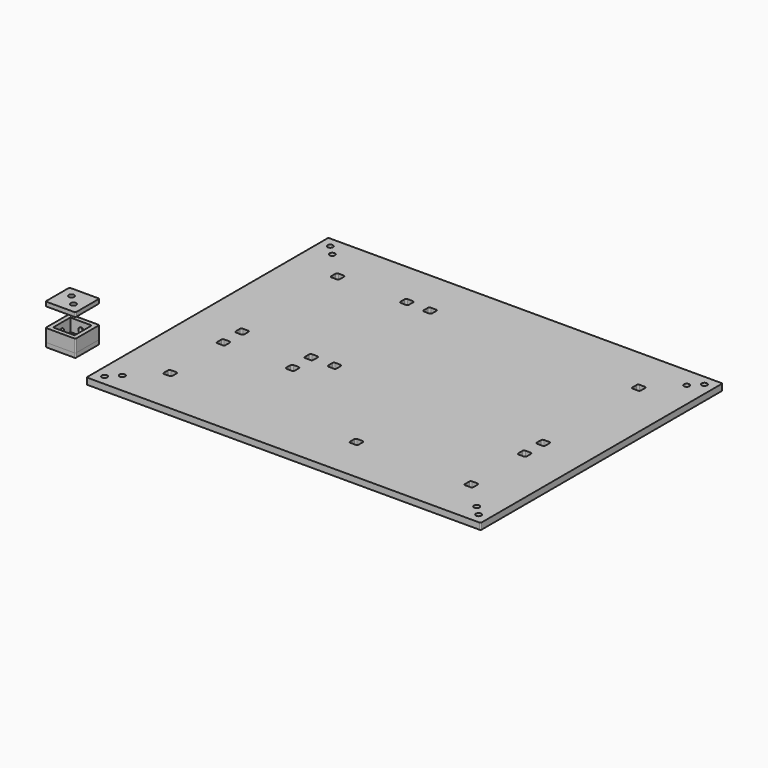
from build123d import *

# Parameters (mm, degrees)
SKETCH001_R      = 2.6
EXTRUDE001_DEPTH = 4
SKETCH003_R      = 2.6
EXTRUDE003_DEPTH = 6
SKETCH002_R      = 2.6
EXTRUDE002_DEPTH = 6
SKETCH_W         = 20.3
SKETCH_H         = 20.3
EXTRUDE_DEPTH    = 12
SKETCH004_R      = 2.6
EXTRUDE004_DEPTH = 4
EXTRUDE006_DEPTH = 6
SKETCH005_R      = 2.6
EXTRUDE005_DEPTH = 6


with BuildPart() as extrude001:
    # Sketch001 (on Face13 of Extrude) → Extrude001 (new body)
    with BuildSketch(Plane(origin=(0, 0, 0), x_dir=(1, 0, 0), z_dir=(0, 0, -1))):
        with BuildLine():
            Line((24.3, 3), (24.3, -23.3))
            ThreePointArc((23.3, -24.3), (24.007107, -24.007107), (24.3, -23.3))
            Line((23.3, -24.3), (-3, -24.3))
            ThreePointArc((-4, -23.3), (-3.707107, -24.007107), (-3, -24.3))
            Line((-4, -23.3), (-4, 3))
            ThreePointArc((-3, 4), (-3.707107, 3.707107), (-4, 3))
            Line((-3, 4), (23.3, 4))
            ThreePointArc((24.3, 3), (24.007107, 3.707107), (23.3, 4))
        make_face()
        with Locations((5.5, -14.8)):
            Circle(SKETCH001_R, mode=Mode.SUBTRACT)
        with Locations((14.8, -5.5)):
            Circle(SKETCH001_R, mode=Mode.SUBTRACT)
    extrude(amount=EXTRUDE001_DEPTH)


with BuildPart() as extrude003:
    # Sketch003 (on Face5 of Extrude) → Extrude003 (new body)
    with BuildSketch(Plane(origin=(0, 24.3, 0), x_dir=(-1, 0, 0), z_dir=(0, 1, 0))):
        with Locations((-10.15, 4.5)):
            Circle(SKETCH003_R)
    extrude(amount=-EXTRUDE003_DEPTH)


with BuildPart() as fusion:
    # Sketch002 (on Face7 of Extrude) → Extrude002 (new body)
    with BuildSketch(Plane(origin=(-4, 0, 0), x_dir=(0, -1, 0), z_dir=(-1, 0, 0))):
        with Locations((-10.15, 4.5)):
            Circle(SKETCH002_R)
    extrude(amount=-EXTRUDE002_DEPTH)

    # Fusion: union Extrude003
    add(extrude003.part)


with BuildPart() as cut:
    # Sketch → Extrude (new body)
    with BuildSketch(Plane.XY):
        with BuildLine():
            Line((-3, -4), (23.3, -4))
            ThreePointArc((23.3, -4), (24.007107, -3.707107), (24.3, -3))
            Line((24.3, -3), (24.3, 23.3))
            ThreePointArc((24.3, 23.3), (24.007107, 24.007107), (23.3, 24.3))
            Line((23.3, 24.3), (-3, 24.3))
            ThreePointArc((-3, 24.3), (-3.707107, 24.007107), (-4, 23.3))
            Line((-4, 23.3), (-4, -3))
            ThreePointArc((-4, -3), (-3.707107, -3.707107), (-3, -4))
        make_face()
        with Locations((10.15, 10.15)):
            Rectangle(SKETCH_W, SKETCH_H, mode=Mode.SUBTRACT)
    extrude(amount=EXTRUDE_DEPTH)

    # Cut: cut Fusion
    add(fusion.part, mode=Mode.SUBTRACT)


with BuildPart() as extrude004:
    # Sketch004 → Extrude004 (new body)
    with BuildSketch(Plane.XY.offset(30)):
        with BuildLine():
            Line((-3, 24.3), (23.3, 24.3))
            ThreePointArc((24.3, 23.3), (24.007107, 24.007107), (23.3, 24.3))
            Line((24.3, 23.3), (24.3, -3))
            ThreePointArc((23.3, -4), (24.007107, -3.707107), (24.3, -3))
            Line((23.3, -4), (-3, -4))
            ThreePointArc((-4, -3), (-3.707107, -3.707107), (-3, -4))
            Line((-4, -3), (-4, 23.3))
            ThreePointArc((-3, 24.3), (-3.707107, 24.007107), (-4, 23.3))
        make_face()
        with Locations((5.5, 14.8)):
            Circle(SKETCH004_R, mode=Mode.SUBTRACT)
        with Locations((14.8, 5.5)):
            Circle(SKETCH004_R, mode=Mode.SUBTRACT)
    extrude(amount=EXTRUDE004_DEPTH)


with BuildPart() as extrude006:
    # Sketch006 (on Face18 of Extrude005) → Extrude006 (new body)
    with BuildSketch(Plane.XY.offset(6)):
        with BuildLine():
            Line((103.5, 2), (108.5, 2))
            ThreePointArc((108.5, 2), (109.56066, 2.43934), (110, 3.5))
            Line((110, 3.5), (110, 8.5))
            ThreePointArc((110, 8.5), (109.56066, 9.56066), (108.5, 10))
            Line((108.5, 10), (103.5, 10))
            ThreePointArc((103.5, 10), (102.43934, 9.56066), (102, 8.5))
            Line((102, 8.5), (102, 3.5))
            ThreePointArc((102, 3.5), (102.43934, 2.43934), (103.5, 2))
        make_face()
        with BuildLine():
            Line((387, 8.5), (387, 3.5))
            ThreePointArc((387, 3.5), (387.43934, 2.43934), (388.5, 2))
            Line((388.5, 2), (393.5, 2))
            ThreePointArc((393.5, 2), (394.56066, 2.43934), (395, 3.5))
            Line((395, 3.5), (395, 8.5))
            ThreePointArc((395, 8.5), (394.56066, 9.56066), (393.5, 10))
            Line((393.5, 10), (388.5, 10))
            ThreePointArc((388.5, 10), (387.43934, 9.56066), (387, 8.5))
        make_face()
        with BuildLine():
            Line((278.245, 8.5), (278.245, 3.5))
            ThreePointArc((278.245, 3.5), (278.68434, 2.43934), (279.745, 2))
            Line((279.745, 2), (284.745, 2))
            ThreePointArc((284.745, 2), (285.80566, 2.43934), (286.245, 3.5))
            Line((286.245, 3.5), (286.245, 8.5))
            ThreePointArc((286.245, 8.5), (285.80566, 9.56066), (284.745, 10))
            Line((284.745, 10), (279.745, 10))
            ThreePointArc((279.745, 10), (278.68434, 9.56066), (278.245, 8.5))
        make_face()
        with BuildLine():
            Line((102, 71.5), (102, 66.5))
            ThreePointArc((102, 66.5), (102.43934, 65.43934), (103.5, 65))
            Line((103.5, 65), (108.5, 65))
            ThreePointArc((108.5, 65), (109.56066, 65.43934), (110, 66.5))
            Line((110, 66.5), (110, 71.5))
            ThreePointArc((110, 71.5), (109.56066, 72.56066), (108.5, 73))
            Line((108.5, 73), (103.5, 73))
            ThreePointArc((103.5, 73), (102.43934, 72.56066), (102, 71.5))
        make_face()
        with BuildLine():
            Line((167.45, 71.5), (167.45, 66.5))
            ThreePointArc((167.45, 66.5), (167.88934, 65.43934), (168.95, 65))
            Line((168.95, 65), (173.95, 65))
            ThreePointArc((173.95, 65), (175.01066, 65.43934), (175.45, 66.5))
            Line((175.45, 66.5), (175.45, 71.5))
            ThreePointArc((175.45, 71.5), (175.01066, 72.56066), (173.95, 73))
            Line((173.95, 73), (168.95, 73))
            ThreePointArc((168.95, 73), (167.88934, 72.56066), (167.45, 71.5))
        make_face()
        with BuildLine():
            Line((387, 71.5), (387, 66.5))
            ThreePointArc((387, 66.5), (387.43934, 65.43934), (388.5, 65))
            Line((388.5, 65), (393.5, 65))
            ThreePointArc((393.5, 65), (394.56066, 65.43934), (395, 66.5))
            Line((395, 66.5), (395, 71.5))
            ThreePointArc((395, 71.5), (394.56066, 72.56066), (393.5, 73))
            Line((393.5, 73), (388.5, 73))
            ThreePointArc((388.5, 73), (387.43934, 72.56066), (387, 71.5))
        make_face()
        with BuildLine():
            Line((102, 206.5), (102, 201.5))
            ThreePointArc((102, 201.5), (102.43934, 200.43934), (103.5, 200))
            Line((103.5, 200), (108.5, 200))
            ThreePointArc((108.5, 200), (109.56066, 200.43934), (110, 201.5))
            Line((110, 201.5), (110, 206.5))
            ThreePointArc((110, 206.5), (109.56066, 207.56066), (108.5, 208))
            Line((108.5, 208), (103.5, 208))
            ThreePointArc((103.5, 208), (102.43934, 207.56066), (102, 206.5))
        make_face()
        with BuildLine():
            Line((102, 93.5), (102, 88.5))
            ThreePointArc((102, 88.5), (102.43934, 87.43934), (103.5, 87))
            Line((103.5, 87), (108.5, 87))
            ThreePointArc((108.5, 87), (109.56066, 87.43934), (110, 88.5))
            Line((110, 88.5), (110, 93.5))
            ThreePointArc((110, 93.5), (109.56066, 94.56066), (108.5, 95))
            Line((108.5, 95), (103.5, 95))
            ThreePointArc((103.5, 95), (102.43934, 94.56066), (102, 93.5))
        make_face()
        with BuildLine():
            Line((167.455, 206.5), (167.455, 201.5))
            ThreePointArc((167.455, 201.5), (167.89434, 200.43934), (168.955, 200))
            Line((168.955, 200), (173.955, 200))
            ThreePointArc((173.955, 200), (175.01566, 200.43934), (175.455, 201.5))
            Line((175.455, 201.5), (175.455, 206.5))
            ThreePointArc((175.455, 206.5), (175.01566, 207.56066), (173.955, 208))
            Line((173.955, 208), (168.955, 208))
            ThreePointArc((168.955, 208), (167.89434, 207.56066), (167.455, 206.5))
        make_face()
        with BuildLine():
            Line((167.455, 93.5), (167.455, 88.5))
            ThreePointArc((167.455, 88.5), (167.89434, 87.43934), (168.955, 87))
            Line((168.955, 87), (173.955, 87))
            ThreePointArc((173.955, 87), (175.01566, 87.43934), (175.455, 88.5))
            Line((175.455, 88.5), (175.455, 93.5))
            ThreePointArc((175.455, 93.5), (175.01566, 94.56066), (173.955, 95))
            Line((173.955, 95), (168.955, 95))
            ThreePointArc((168.955, 95), (167.89434, 94.56066), (167.455, 93.5))
        make_face()
        with BuildLine():
            Line((189.455, 93.5), (189.455, 88.5))
            ThreePointArc((189.455, 88.5), (189.89434, 87.43934), (190.955, 87))
            Line((190.955, 87), (195.955, 87))
            ThreePointArc((195.955, 87), (197.01566, 87.43934), (197.455, 88.5))
            Line((197.455, 88.5), (197.455, 93.5))
            ThreePointArc((197.455, 93.5), (197.01566, 94.56066), (195.955, 95))
            Line((195.955, 95), (190.955, 95))
            ThreePointArc((190.955, 95), (189.89434, 94.56066), (189.455, 93.5))
        make_face()
        with BuildLine():
            Line((387, 93.5), (387, 88.5))
            ThreePointArc((387, 88.5), (387.43934, 87.43934), (388.5, 87))
            Line((388.5, 87), (393.5, 87))
            ThreePointArc((393.5, 87), (394.56066, 87.43934), (395, 88.5))
            Line((395, 88.5), (395, 93.5))
            ThreePointArc((395, 93.5), (394.56066, 94.56066), (393.5, 95))
            Line((393.5, 95), (388.5, 95))
            ThreePointArc((388.5, 95), (387.43934, 94.56066), (387, 93.5))
        make_face()
        with BuildLine():
            Line((189.455, 206.5), (189.455, 201.5))
            ThreePointArc((189.455, 201.5), (189.89434, 200.43934), (190.955, 200))
            Line((190.955, 200), (195.955, 200))
            ThreePointArc((195.955, 200), (197.01566, 200.43934), (197.455, 201.5))
            Line((197.455, 201.5), (197.455, 206.5))
            ThreePointArc((197.455, 206.5), (197.01566, 207.56066), (195.955, 208))
            Line((195.955, 208), (190.955, 208))
            ThreePointArc((190.955, 208), (189.89434, 207.56066), (189.455, 206.5))
        make_face()
        with BuildLine():
            Line((387, 206.5), (387, 201.5))
            ThreePointArc((387, 201.5), (387.43934, 200.43934), (388.5, 200))
            Line((388.5, 200), (393.5, 200))
            ThreePointArc((393.5, 200), (394.56066, 200.43934), (395, 201.5))
            Line((395, 201.5), (395, 206.5))
            ThreePointArc((395, 206.5), (394.56066, 207.56066), (393.5, 208))
            Line((393.5, 208), (388.5, 208))
            ThreePointArc((388.5, 208), (387.43934, 207.56066), (387, 206.5))
        make_face()
    extrude(amount=-EXTRUDE006_DEPTH)


with BuildPart() as cut001:
    # Sketch005 → Extrude005 (new body)
    with BuildSketch(Plane.XY):
        with BuildLine():
            Line((62, 247), (62, -37))
            ThreePointArc((62, -37), (62.292893, -37.707107), (63, -38))
            Line((63, -38), (434, -38))
            ThreePointArc((434, -38), (434.707107, -37.707107), (435, -37))
            Line((435, -37), (435, 247))
            ThreePointArc((435, 247), (434.707107, 247.707107), (434, 248))
            Line((434, 248), (63, 248))
            ThreePointArc((63, 248), (62.292893, 247.707107), (62, 247))
        make_face()
        with Locations((71.5, -28.5)):
            Circle(SKETCH005_R, mode=Mode.SUBTRACT)
        with Locations((80.8, -19.2)):
            Circle(SKETCH005_R, mode=Mode.SUBTRACT)
        with Locations((425.5, -28.5)):
            Circle(SKETCH005_R, mode=Mode.SUBTRACT)
        with Locations((416.2, -19.2)):
            Circle(SKETCH005_R, mode=Mode.SUBTRACT)
        with Locations((425.5, 238.5)):
            Circle(SKETCH005_R, mode=Mode.SUBTRACT)
        with Locations((416.2, 229.2)):
            Circle(SKETCH005_R, mode=Mode.SUBTRACT)
        with Locations((71.5, 238.5)):
            Circle(SKETCH005_R, mode=Mode.SUBTRACT)
        with Locations((80.8, 229.2)):
            Circle(SKETCH005_R, mode=Mode.SUBTRACT)
    extrude(amount=EXTRUDE005_DEPTH)

    # Cut001: cut Extrude006
    add(extrude006.part, mode=Mode.SUBTRACT)


solid = Compound([extrude001.part, cut.part, extrude004.part, cut001.part])
